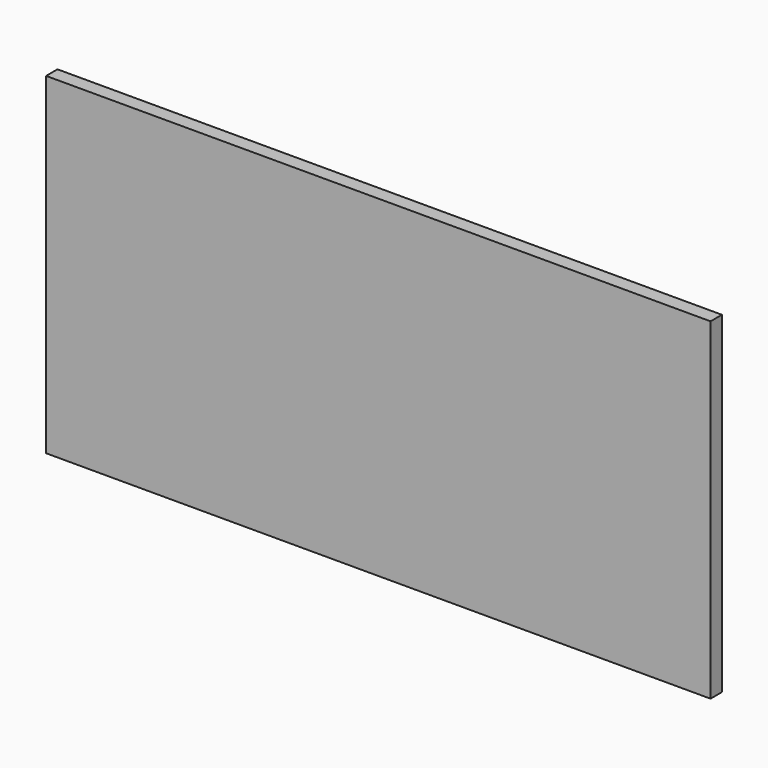
from build123d import *

# Parameters (mm, degrees)
F0_W     = 560
F0_H     = 280
F1_DEPTH = 12
F2_DEPTH = 12


with BuildPart() as f1:
    # F0 (on Front) → F1 (new body)
    with BuildSketch(Plane.XZ):
        with Locations((0, 140)):
            Rectangle(F0_W, F0_H)
    extrude(amount=F1_DEPTH)

    # F0 (on Front) → F2 (join)
    with BuildSketch(Plane.XZ):
        with Locations((0, 140)):
            Rectangle(F0_W, F0_H)
    extrude(amount=F2_DEPTH)


solid = f1.part
